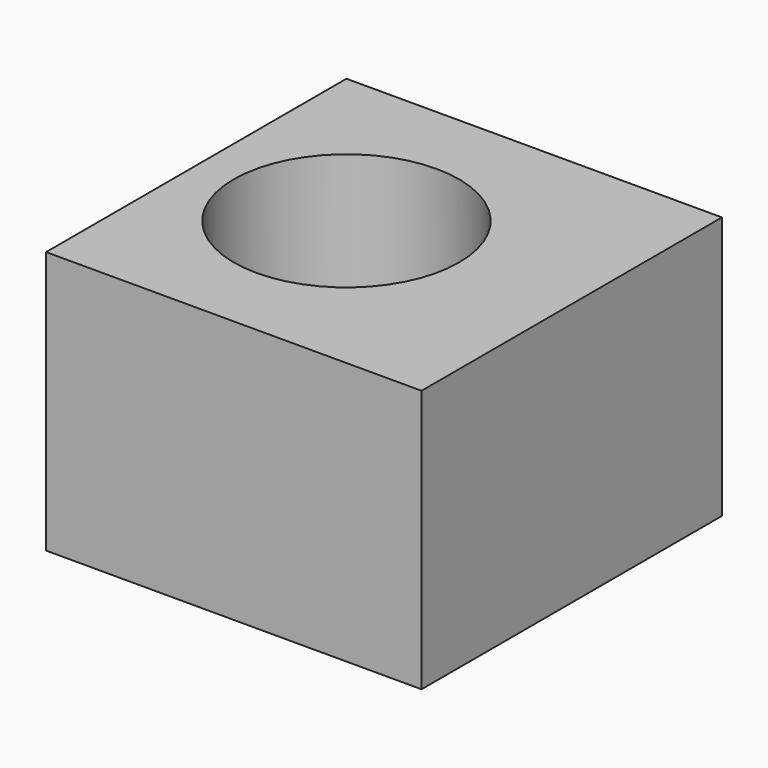
from build123d import *

# Parameters (mm, degrees)
CYLINDER_R     = 1.5
CYLINDER_DEPTH = 10
BOX008_W       = 5
BOX008_H       = 5
BOX008_DEPTH   = 3.5


with BuildPart() as hole:
    # Cylinder → Cylinder (new body)
    with BuildSketch(Plane(origin=(23, 4.5, 0), x_dir=(1, 0, 0), z_dir=(0, 0, 1))):
        Circle(CYLINDER_R)
    extrude(amount=CYLINDER_DEPTH)


with BuildPart() as stand_hole_cut:
    # Box008 → Box008 (new body)
    with BuildSketch(Plane(origin=(21, 2, 0), x_dir=(1, 0, 0), z_dir=(0, 0, 1))):
        with Locations((2.5, 2.5)):
            Rectangle(BOX008_W, BOX008_H)
    extrude(amount=BOX008_DEPTH)

    # Cut003002: cut hole
    add(hole.part, mode=Mode.SUBTRACT)


solid = stand_hole_cut.part
